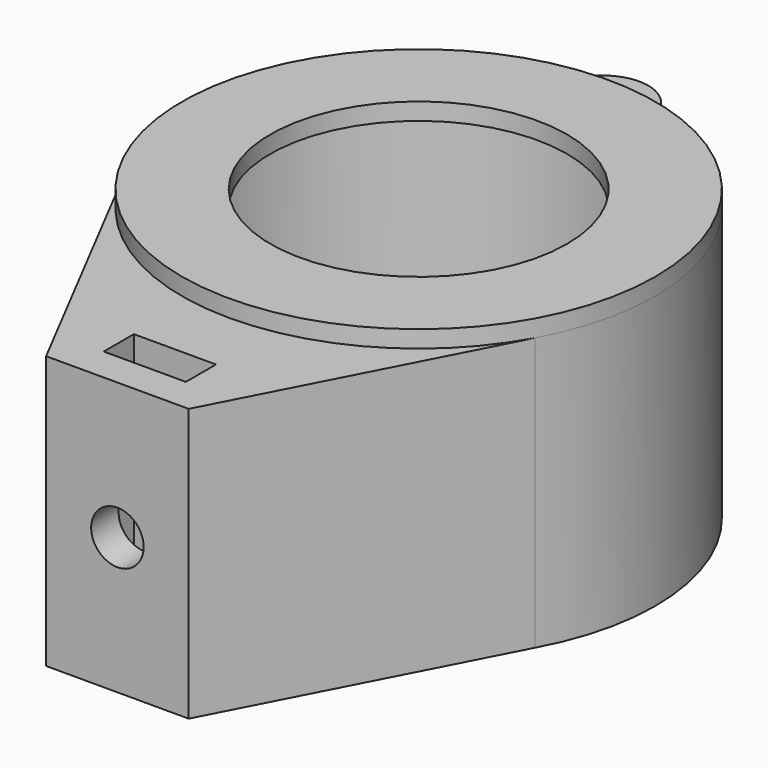
from build123d import *

# Parameters (mm, degrees)
F0_W     = 7.2
F0_H     = 3.3
F0_R     = 18.25
F1_DEPTH = 23.9
F2_R     = 20.75
F2_R_2   = 13
F3_DEPTH = 1.5
F4_R     = 1.7
F5_DEPTH = 16
F6_R     = 2.3
F7_DEPTH = 12


with BuildPart() as f1:
    # F0 (on Top) → F1 (new body)
    with BuildSketch(Plane.XY):
        with BuildLine():
            Line((6.25, -33), (18.1813778356, -10))
            ThreePointArc((18.1813778356, -10), (18.7990024923, 8.7840768037), (3.9943827894, 20.36191067))
            ThreePointArc((3.9943827894, 20.36191067), (0, 24.15), (-3.9943827894, 20.36191067))
            ThreePointArc((-3.9943827894, 20.36191067), (-18.7990024923, 8.7840768037), (-18.1813778356, -10))
            Line((-18.1813778356, -10), (-6.25, -33))
            Line((-6.25, -33), (6.25, -33))
        make_face()
        with Locations((0, -28.35)):
            Rectangle(F0_W, F0_H, mode=Mode.SUBTRACT)
        Circle(F0_R, mode=Mode.SUBTRACT)
    extrude(amount=F1_DEPTH)

    # F2 (on face) → F3 (join)
    with BuildSketch(Plane.XY.offset(23.9)):
        Circle(F2_R)
        Circle(F2_R_2, mode=Mode.SUBTRACT)
    extrude(amount=F3_DEPTH)

    # F4 (on face) → F5 (cut)
    with BuildSketch(Plane(origin=(0, 0, 0), x_dir=(1, 0, 0), z_dir=(0, 0, -1))):
        with Locations((0, 20.15)):
            Circle(F4_R)
        with Locations((0, -20.15)):
            Circle(F4_R)
    extrude(amount=-F5_DEPTH, mode=Mode.SUBTRACT)

    # F6 (on face) → F7 (cut)
    with BuildSketch(Plane.XZ.offset(33)):
        with Locations((0, 11.95)):
            Circle(F6_R)
    extrude(amount=-F7_DEPTH, mode=Mode.SUBTRACT)


solid = f1.part
